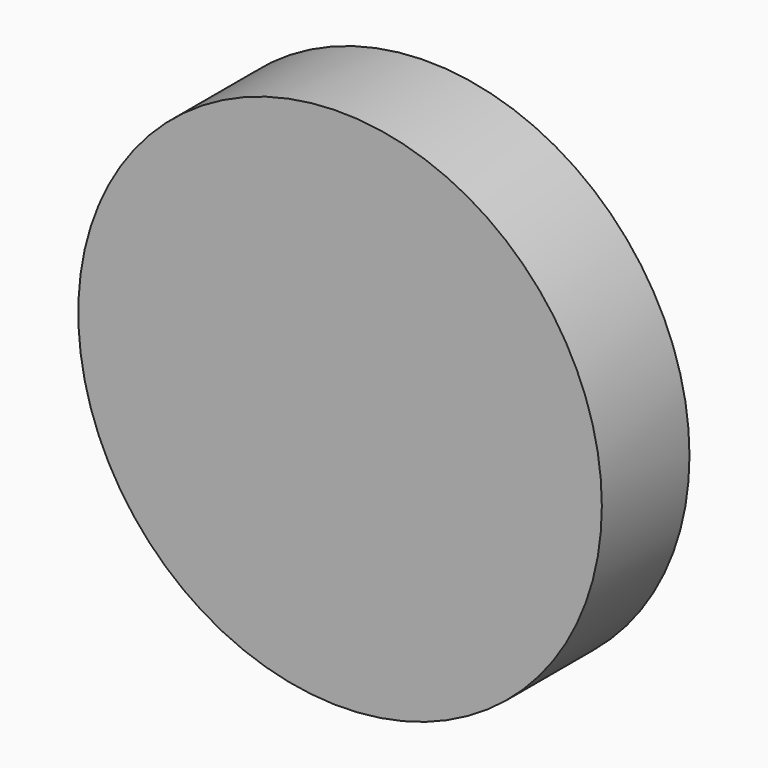
from build123d import *

# Parameters (mm, degrees)
F0_R     = 60.701986
F0_R_2   = 50.507106
F0_R_3   = 39.681626
F0_R_4   = 30.186004
F0_R_5   = 20.234462
F0_R_6   = 9.01338
F1_DEPTH = 25.4


with BuildPart() as f1:
    # F0 (on Front) → F1 (new body)
    with BuildSketch(Plane.XZ):
        Circle(F0_R)
        Circle(F0_R_2, mode=Mode.SUBTRACT)
        Circle(F0_R_2)
        Circle(F0_R_3, mode=Mode.SUBTRACT)
        Circle(F0_R_3)
        Circle(F0_R_4, mode=Mode.SUBTRACT)
        Circle(F0_R_4)
        Circle(F0_R_5, mode=Mode.SUBTRACT)
        Circle(F0_R_5)
        Circle(F0_R_6, mode=Mode.SUBTRACT)
        Circle(F0_R_6)
    extrude(amount=F1_DEPTH)


solid = f1.part
